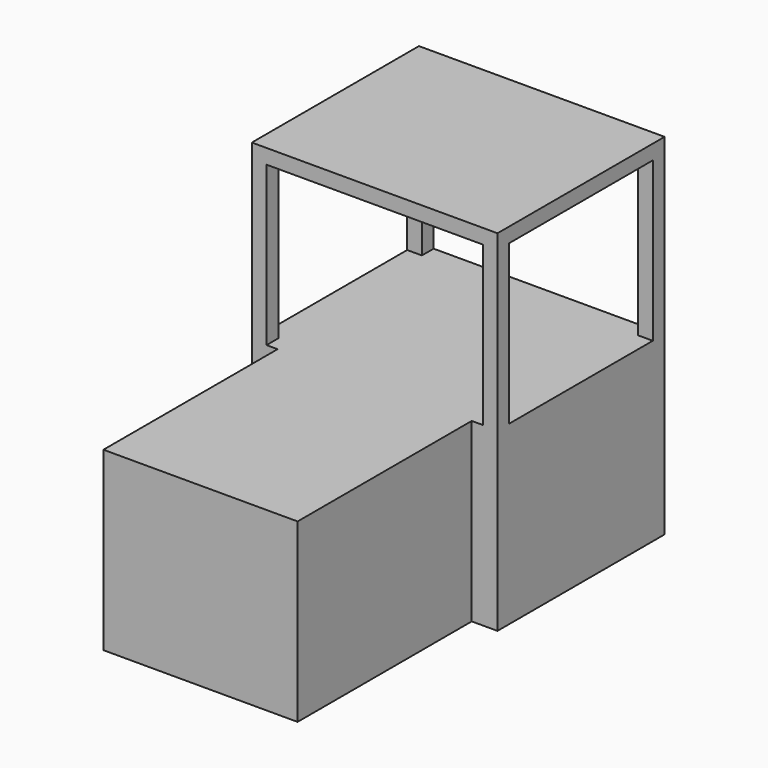
from build123d import *

# Parameters (mm, degrees)
F0_W     = 2120.9
F0_H     = 1803.4
F1_DEPTH = 3022.6
F2_W     = 1676.4
F2_H     = 1879.6
F3_DEPTH = 1524
F4_W     = 1866.9
F4_H     = 1371.6
F5_DEPTH = 1803.401
F6_W     = 1549.4
F6_H     = 1371.6
F7_DEPTH = 2120.901


with BuildPart() as f1:
    # F0 (on Top) → F1 (new body)
    with BuildSketch(Plane.XY):
        with Locations((1060.45, 901.7)):
            Rectangle(F0_W, F0_H)
    extrude(amount=F1_DEPTH)

    # F2 (on Top) → F3 (join)
    with BuildSketch(Plane.XY):
        with Locations((1060.45, -939.8)):
            Rectangle(F2_W, F2_H)
    extrude(amount=F3_DEPTH)

    # F4 (on face) → F5 (cut, through all)
    with BuildSketch(Plane.XZ):
        with Locations((1060.45, 2209.8)):
            Rectangle(F4_W, F4_H)
    extrude(amount=-F5_DEPTH, mode=Mode.SUBTRACT)

    # F6 (on face) → F7 (cut, through all)
    with BuildSketch(Plane(origin=(0, 0, 0), x_dir=(0, -1, 0), z_dir=(-1, 0, 0))):
        with Locations((-901.7, 2209.8)):
            Rectangle(F6_W, F6_H)
    extrude(amount=-F7_DEPTH, mode=Mode.SUBTRACT)


solid = f1.part
